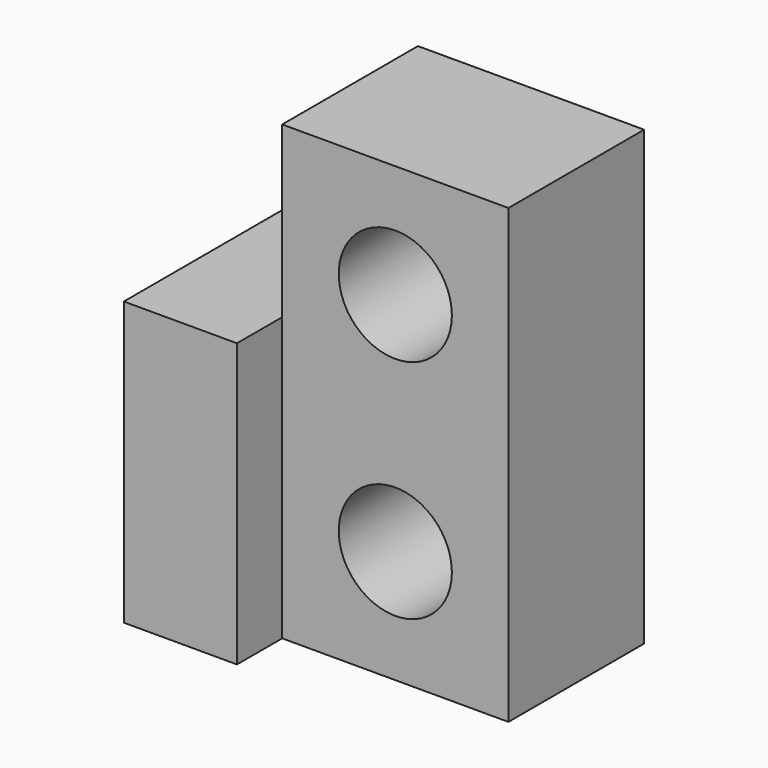
from build123d import *

# Parameters (mm, degrees)
F0_R     = 5
F1_DEPTH = 15
F0_W     = 10
F0_H     = 25
F2_DEPTH = 20
F3_R     = 5
F4_DEPTH = 15


with BuildPart() as f1:
    # F0 (on Front) → F1 (new body)
    with BuildSketch(Plane.XZ):
        Polygon((10, -20), (10, 20), (-10, 20), (-10, 5), (-10, -20), align=None)
        with Locations((0, -10)):
            Circle(F0_R, mode=Mode.SUBTRACT)
    extrude(amount=F1_DEPTH)

    # F0 (on Front) → F2 (join)
    with BuildSketch(Plane.XZ):
        with Locations((-15, -7.5)):
            Rectangle(F0_W, F0_H)
    extrude(amount=F2_DEPTH)

    # F3 (on face) → F4 (cut, through all)
    with BuildSketch(Plane.XZ.offset(15)):
        with Locations((0, 10)):
            Circle(F3_R)
    extrude(amount=-F4_DEPTH, mode=Mode.SUBTRACT)


solid = f1.part
